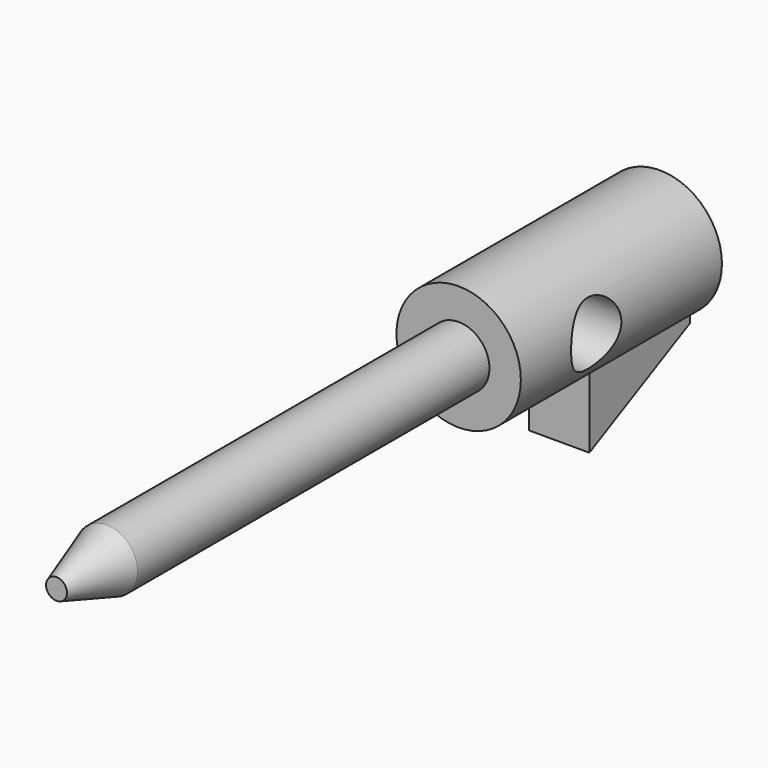
from build123d import *

# Parameters (mm, degrees)
F0_R      = 2.5146
F1_DEPTH  = 10.16
F2_R      = 1.2446
F3_DEPTH  = 17.78
F3_FACE_R = 1.2446
F5_R      = 0.422561
F7_R      = 1.27
F8_DEPTH  = 25.4
F9_DEPTH  = 25.4
F11_DEPTH = 1.2192
F12_DEPTH = 1.2192


with BuildPart() as f1:
    # F0 (on Front) → F1 (new body)
    with BuildSketch(Plane.XZ):
        Circle(F0_R)
    extrude(amount=F1_DEPTH)

    # F2 (on face) → F3 (join)
    with BuildSketch(Plane.XZ.offset(10.16)):
        Circle(F2_R)
        Circle(F2_R)
    extrude(amount=F3_DEPTH)

    # F3_face (on face) → F6 section 0
    with BuildSketch(Plane.XZ.offset(27.94)):
        Circle(F3_FACE_R)
    # F5 (on offset) → F6 section 1
    with BuildSketch(Plane.XZ.offset(30.48)):
        Circle(F5_R)
    loft()

    # F7 (on Right) → F8 (cut)
    with BuildSketch(Plane.YZ):
        with Locations((-6.35, 0)):
            Circle(F7_R)
    extrude(amount=-F8_DEPTH, mode=Mode.SUBTRACT)

    # F7 (on Right) → F9 (cut)
    with BuildSketch(Plane.YZ):
        with Locations((-6.35, 0)):
            Circle(F7_R)
    extrude(amount=F9_DEPTH, mode=Mode.SUBTRACT)

    # F10 (on Right) → F11 (join)
    with BuildSketch(Plane.YZ):
        Polygon((0, -2.54), (0, 0), (-5.08, 0), (-5.08, -2.54), (-5.08, -5.08), align=None)
    extrude(amount=F11_DEPTH)

    # F10 (on Right) → F12 (join)
    with BuildSketch(Plane.YZ):
        Polygon((0, -2.54), (0, 0), (-5.08, 0), (-5.08, -2.54), (-5.08, -5.08), align=None)
    extrude(amount=-F12_DEPTH)


solid = f1.part
